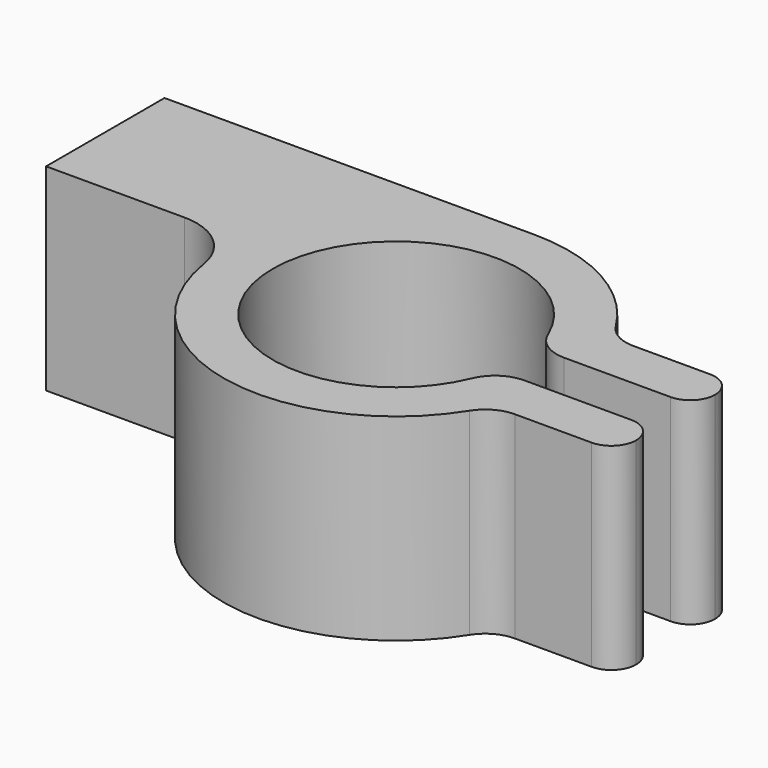
from build123d import *

# Parameters (mm, degrees)
F1_DEPTH = 8


with BuildPart() as f1:
    # F0 (on Top) → F1 (new body)
    with BuildSketch(Plane.XY):
        with BuildLine():
            Line((8, 0), (0, 0))
            Line((0, 0), (0, -6))
            Line((0, -6), (5.606788, -6))
            ThreePointArc((5.606788, -6), (7.229002, -6.597785), (8.075428, -8.105263))
            ThreePointArc((8.075428, -8.105263), (13.599168, -13.860919), (20.926175, -10.705882))
            ThreePointArc((20.926175, -10.705882), (21.471115, -10.188288), (22.198722, -10))
            Line((22.198722, -10), (25.312175, -10))
            ThreePointArc((25.312175, -10), (26.019282, -9.707107), (26.312175, -9))
            ThreePointArc((26.312175, -9), (26.019282, -8.292893), (25.312175, -8))
            Line((25.312175, -8), (21.915823, -8))
            Line((21.915823, -8), (20.98762, -8))
            ThreePointArc((20.98762, -8), (20.155569, -8.251925), (19.603004, -8.923077))
            ThreePointArc((19.603004, -8.923077), (9.98762, -7), (19.603004, -5.076923))
            ThreePointArc((19.603004, -5.076923), (20.155569, -5.748075), (20.98762, -6))
            Line((20.98762, -6), (21.915823, -6))
            Line((21.915823, -6), (25.312175, -6))
            ThreePointArc((25.312175, -6), (26.019282, -5.707107), (26.312175, -5))
            ThreePointArc((26.312175, -5), (26.019282, -4.292893), (25.312175, -4))
            Line((25.312175, -4), (22.198722, -4))
            ThreePointArc((22.198722, -4), (21.471115, -3.811712), (20.926175, -3.294118))
            ThreePointArc((20.926175, -3.294118), (18.383118, -0.878678), (14.98762, 0))
            Line((14.98762, 0), (8, 0))
        make_face()
    extrude(amount=F1_DEPTH)


solid = f1.part
